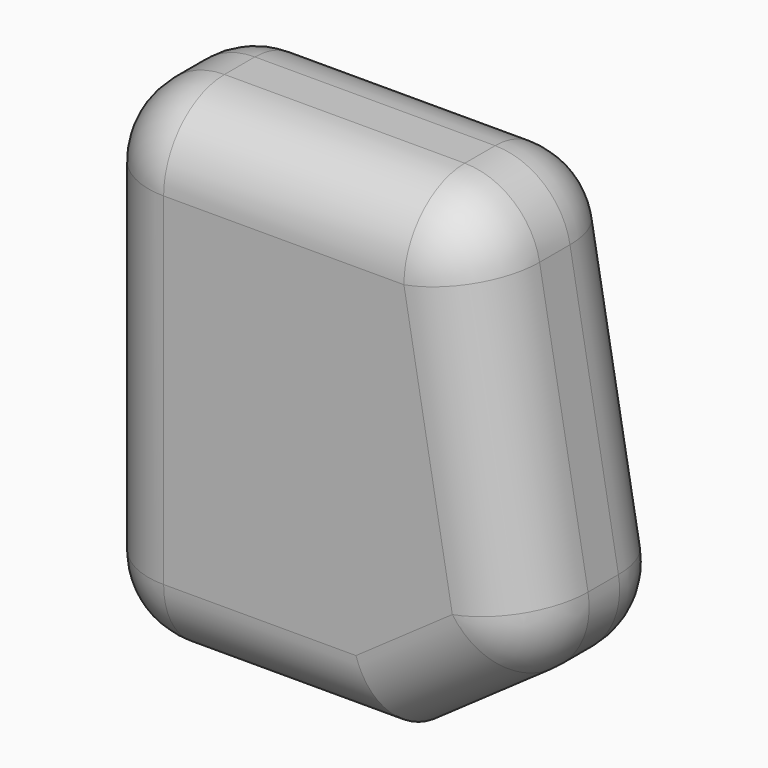
from build123d import *

# Parameters (mm, degrees)
F1_DEPTH = 25
F2_R     = 10


with BuildPart() as f1:
    # F0 (on Front) → F1 (new body)
    with BuildSketch(Plane.XZ):
        Polygon((-26.120773, 31.526426), (-26.120773, -33.473574), (12.333255, -33.473574), (32.812056, -19.134163), (23.879227, 31.526426), align=None)
    extrude(amount=F1_DEPTH)

    # F2
    f2_edges = [f1.edges().sort_by_distance(p)[0] for p in [
        (23.879227, -12.5, 31.526426),
        (32.812056, -12.5, -19.134163),
        (-26.120773, -12.5, 31.526426),
        (-26.120773, -12.5, -33.473574),
        (28.345642, -25, 6.196132),
        (-1.120773, -25, 31.526426),
        (-26.120773, -25, -0.973574),
        (-6.893759, -25, -33.473574),
        (22.572655, -25, -26.303868),
        (28.345642, 0, 6.196132),
        (-1.120773, 0, 31.526426),
        (-26.120773, 0, -0.973574),
        (-6.893759, 0, -33.473574),
        (22.572655, 0, -26.303868),
    ]]
    fillet(f2_edges, radius=F2_R)


solid = f1.part
